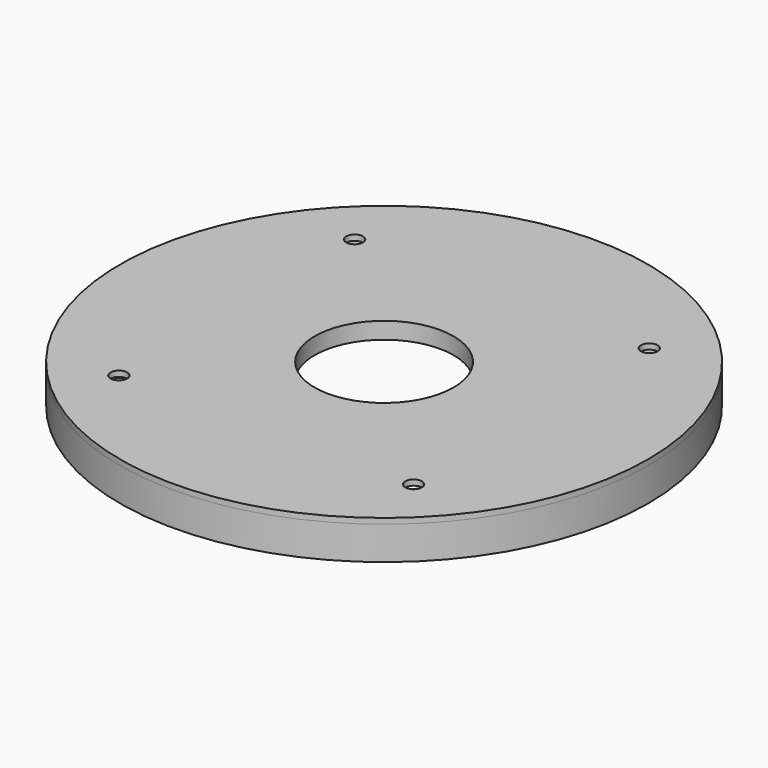
from build123d import *

# Parameters (mm, degrees)
F0_R      = 47.5
F0_R_2    = 1.5
F0_R_3    = 27.5
F1_DEPTH  = 1
F2_R      = 1
F3_DEPTH  = 0.5
F4_R      = 47.5
F4_R_2    = 46
F5_DEPTH  = 5
F6_R      = 47.5
F6_R_2    = 1.5
F6_R_3    = 12.5
F7_DEPTH  = 1
F8_R      = 45.7
F8_R_2    = 44.2
F8_R_3    = 3
F8_R_4    = 1.75
F9_DEPTH  = 5
F10_DEPTH = 0.5
F11_R     = 12.5
F12_DEPTH = 2


with BuildPart() as f1:
    # F0 (on Top) → F1 (new body)
    with BuildSketch(Plane.XY):
        Circle(F0_R)
        with Locations((-22.9809703886, -22.9809703886)):
            Circle(F0_R_2, mode=Mode.SUBTRACT)
        with Locations((22.9809703886, -22.9809703886)):
            Circle(F0_R_2, mode=Mode.SUBTRACT)
        with Locations((-22.9809703886, 22.9809703886)):
            Circle(F0_R_2, mode=Mode.SUBTRACT)
        Circle(F0_R_3, mode=Mode.SUBTRACT)
        with Locations((22.9809703886, 22.9809703886)):
            Circle(F0_R_2, mode=Mode.SUBTRACT)
    extrude(amount=F1_DEPTH)

    # F2 (on face) → F3 (cut)
    with BuildSketch(Plane.XY.offset(1)):
        with Locations((0, 37.5)):
            Circle(F2_R)
        with Locations((-3.268340353, 37.3573011784)):
            Circle(F2_R)
        with Locations((-6.5118066625, 36.930290738)):
            Circle(F2_R)
        with Locations((-9.7057141913, 36.2222184858)):
            Circle(F2_R)
        with Locations((-12.8257553747, 35.2384732795)):
            Circle(F2_R)
        with Locations((-15.8481848153, 33.9865420139)):
            Circle(F2_R)
        with Locations((-18.75, 32.4759526419)):
            Circle(F2_R)
        with Locations((-21.5091163632, 30.7182016608)):
            Circle(F2_R)
        with Locations((-24.1045353632, 28.726666617)):
            Circle(F2_R)
        with Locations((-26.5165042945, 26.5165042945)):
            Circle(F2_R)
        with Locations((-28.726666617, 24.1045353632)):
            Circle(F2_R)
        with Locations((-30.7182016608, 21.5091163632)):
            Circle(F2_R)
        with Locations((-32.4759526419, 18.75)):
            Circle(F2_R)
        with Locations((-33.9865420139, 15.8481848153)):
            Circle(F2_R)
        with Locations((-35.2384732795, 12.8257553747)):
            Circle(F2_R)
        with Locations((-36.2222184858, 9.7057141913)):
            Circle(F2_R)
        with Locations((-36.930290738, 6.5118066625)):
            Circle(F2_R)
        with Locations((-37.3573011784, 3.268340353)):
            Circle(F2_R)
        with Locations((-37.5, 0)):
            Circle(F2_R)
        with Locations((-37.3573011784, -3.268340353)):
            Circle(F2_R)
        with Locations((-36.930290738, -6.5118066625)):
            Circle(F2_R)
        with Locations((-36.2222184858, -9.7057141913)):
            Circle(F2_R)
        with Locations((-35.2384732795, -12.8257553747)):
            Circle(F2_R)
        with Locations((-33.9865420139, -15.8481848153)):
            Circle(F2_R)
        with Locations((-32.4759526419, -18.75)):
            Circle(F2_R)
        with Locations((-30.7182016608, -21.5091163632)):
            Circle(F2_R)
        with Locations((-28.726666617, -24.1045353632)):
            Circle(F2_R)
        with Locations((-26.5165042945, -26.5165042945)):
            Circle(F2_R)
        with Locations((-24.1045353632, -28.726666617)):
            Circle(F2_R)
        with Locations((-21.5091163632, -30.7182016608)):
            Circle(F2_R)
        with Locations((-18.75, -32.4759526419)):
            Circle(F2_R)
        with Locations((-15.8481848153, -33.9865420139)):
            Circle(F2_R)
        with Locations((-12.8257553747, -35.2384732795)):
            Circle(F2_R)
        with Locations((-9.7057141913, -36.2222184858)):
            Circle(F2_R)
        with Locations((-6.5118066625, -36.930290738)):
            Circle(F2_R)
        with Locations((-3.268340353, -37.3573011784)):
            Circle(F2_R)
        with Locations((0, -37.5)):
            Circle(F2_R)
        with Locations((3.268340353, -37.3573011784)):
            Circle(F2_R)
        with Locations((6.5118066625, -36.930290738)):
            Circle(F2_R)
        with Locations((9.7057141913, -36.2222184858)):
            Circle(F2_R)
        with Locations((12.8257553747, -35.2384732795)):
            Circle(F2_R)
        with Locations((15.8481848153, -33.9865420139)):
            Circle(F2_R)
        with Locations((18.75, -32.4759526419)):
            Circle(F2_R)
        with Locations((21.5091163632, -30.7182016608)):
            Circle(F2_R)
        with Locations((24.1045353632, -28.726666617)):
            Circle(F2_R)
        with Locations((26.5165042945, -26.5165042945)):
            Circle(F2_R)
        with Locations((28.726666617, -24.1045353632)):
            Circle(F2_R)
        with Locations((30.7182016608, -21.5091163632)):
            Circle(F2_R)
        with Locations((32.4759526419, -18.75)):
            Circle(F2_R)
        with Locations((33.9865420139, -15.8481848153)):
            Circle(F2_R)
        with Locations((35.2384732795, -12.8257553747)):
            Circle(F2_R)
        with Locations((36.2222184858, -9.7057141913)):
            Circle(F2_R)
        with Locations((36.930290738, -6.5118066625)):
            Circle(F2_R)
        with Locations((37.3573011784, -3.268340353)):
            Circle(F2_R)
        with Locations((37.5, 0)):
            Circle(F2_R)
        with Locations((37.3573011784, 3.268340353)):
            Circle(F2_R)
        with Locations((36.930290738, 6.5118066625)):
            Circle(F2_R)
        with Locations((36.2222184858, 9.7057141913)):
            Circle(F2_R)
        with Locations((35.2384732795, 12.8257553747)):
            Circle(F2_R)
        with Locations((33.9865420139, 15.8481848153)):
            Circle(F2_R)
        with Locations((32.4759526419, 18.75)):
            Circle(F2_R)
        with Locations((30.7182016608, 21.5091163632)):
            Circle(F2_R)
        with Locations((28.726666617, 24.1045353632)):
            Circle(F2_R)
        with Locations((26.5165042945, 26.5165042945)):
            Circle(F2_R)
        with Locations((24.1045353632, 28.726666617)):
            Circle(F2_R)
        with Locations((21.5091163632, 30.7182016608)):
            Circle(F2_R)
        with Locations((18.75, 32.4759526419)):
            Circle(F2_R)
        with Locations((15.8481848153, 33.9865420139)):
            Circle(F2_R)
        with Locations((12.8257553747, 35.2384732795)):
            Circle(F2_R)
        with Locations((9.7057141913, 36.2222184858)):
            Circle(F2_R)
        with Locations((6.5118066625, 36.930290738)):
            Circle(F2_R)
        with Locations((3.268340353, 37.3573011784)):
            Circle(F2_R)
    extrude(amount=-F3_DEPTH, mode=Mode.SUBTRACT)

    # F4 (on face) → F5 (join)
    with BuildSketch(Plane.XY.offset(1)):
        Circle(F4_R)
        Circle(F4_R_2, mode=Mode.SUBTRACT)
    extrude(amount=F5_DEPTH)


with BuildPart() as f7:
    # F6 (on face) → F7 (new body)
    with BuildSketch(Plane.XY.offset(6)):
        Circle(F6_R)
        with Locations((-26.5165042945, -26.5165042945)):
            Circle(F6_R_2, mode=Mode.SUBTRACT)
        with Locations((26.5165042945, -26.5165042945)):
            Circle(F6_R_2, mode=Mode.SUBTRACT)
        with Locations((-26.5165042945, 26.5165042945)):
            Circle(F6_R_2, mode=Mode.SUBTRACT)
        Circle(F6_R_3, mode=Mode.SUBTRACT)
        with Locations((26.5165042945, 26.5165042945)):
            Circle(F6_R_2, mode=Mode.SUBTRACT)
    extrude(amount=F7_DEPTH)

    # F8 (on face) → F9 (join)
    with BuildSketch(Plane(origin=(0, 0, 6), x_dir=(1, 0, 0), z_dir=(0, 0, -1))):
        Circle(F8_R)
        Circle(F8_R_2, mode=Mode.SUBTRACT)
        with Locations((0, -37.5)):
            Circle(F8_R_3)
        with Locations((0, -37.5)):
            Circle(F8_R_4, mode=Mode.SUBTRACT)
        with Locations((0, 37.5)):
            Circle(F8_R_3)
        with Locations((0, 37.5)):
            Circle(F8_R_4, mode=Mode.SUBTRACT)
    extrude(amount=F9_DEPTH)

    # F10 (cut): faces of the model
    f10_faces = [f7.faces().sort_by_distance(p)[0] for p in [
        (-2.9151471863, -37.5, 1),
        (-2.9151471863, 37.5, 1),
    ]]
    extrude(f10_faces, amount=-F10_DEPTH, mode=Mode.SUBTRACT)

    # F11 (on face) → F12 (join)
    with BuildSketch(Plane(origin=(0, 0, 6), x_dir=(1, 0, 0), z_dir=(0, 0, -1))):
        with BuildLine():
            Line((-44.1886863349, -1), (-14.4654761415, -1))
            ThreePointArc((-14.4654761415, -1), (-10.2530483272, -10.2530483272), (-1, -14.4654761415))
            Line((-1, -14.4654761415), (-1, -34.6715728753))
            ThreePointArc((-1, -34.6715728753), (0, -34.5), (1, -34.6715728753))
            Line((1, -34.6715728753), (1, -14.4654761415))
            ThreePointArc((1, -14.4654761415), (10.2530483272, -10.2530483272), (14.4654761415, -1))
            Line((14.4654761415, -1), (44.1886863349, -1))
            ThreePointArc((44.1886863349, -1), (44.1971714932, -0.5000319987), (44.2, 0))
            ThreePointArc((44.2, 0), (44.1971714932, 0.5000319987), (44.1886863349, 1))
            Line((44.1886863349, 1), (14.4654761415, 1))
            ThreePointArc((14.4654761415, 1), (10.2530483272, 10.2530483272), (1, 14.4654761415))
            Line((1, 14.4654761415), (1, 34.6715728753))
            ThreePointArc((1, 34.6715728753), (0, 34.5), (-1, 34.6715728753))
            Line((-1, 34.6715728753), (-1, 14.4654761415))
            ThreePointArc((-1, 14.4654761415), (-10.2530483272, 10.2530483272), (-14.4654761415, 1))
            Line((-14.4654761415, 1), (-44.1886863349, 1))
            ThreePointArc((-44.1886863349, 1), (-44.2, 0), (-44.1886863349, -1))
        make_face()
        Circle(F11_R, mode=Mode.SUBTRACT)
        with BuildLine():
            Line((-1, -40.3284271247), (-1, -44.1886863349))
            ThreePointArc((-1, -44.1886863349), (0, -44.2), (1, -44.1886863349))
            Line((1, -44.1886863349), (1, -40.3284271247))
            ThreePointArc((1, -40.3284271247), (0, -40.5), (-1, -40.3284271247))
        make_face()
        with BuildLine():
            ThreePointArc((1, 44.1886863349), (0, 44.2), (-1, 44.1886863349))
            Line((-1, 44.1886863349), (-1, 40.3284271247))
            ThreePointArc((-1, 40.3284271247), (0, 40.5), (1, 40.3284271247))
            Line((1, 40.3284271247), (1, 44.1886863349))
        make_face()
    extrude(amount=F12_DEPTH)


solid = Compound([f1.part, f7.part])
